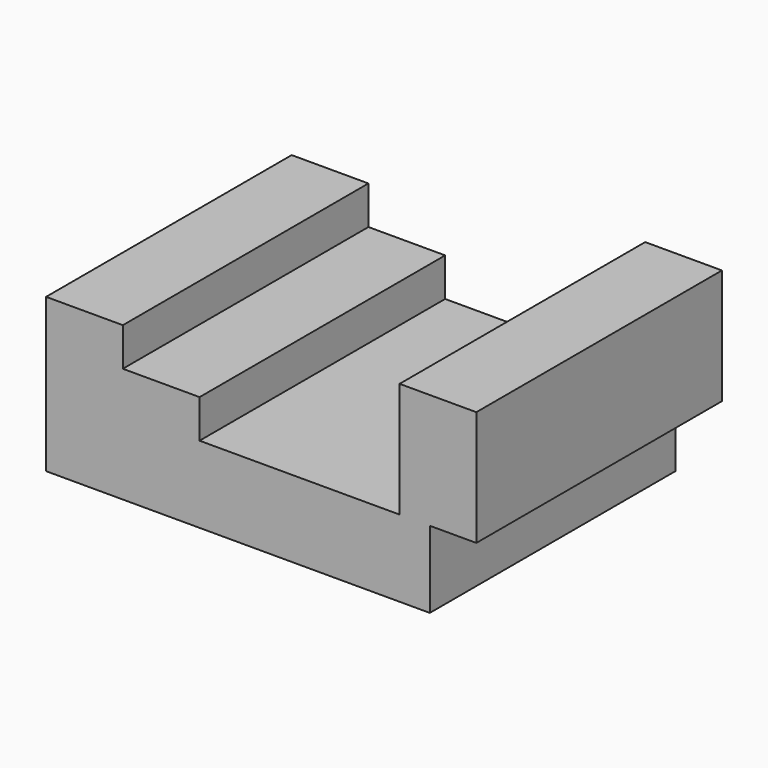
from build123d import *

# Parameters (mm, degrees)
F0_W     = 25.4
F0_H     = 12.7
F1_DEPTH = 101.6
F2_DEPTH = 25.4


with BuildPart() as f1:
    # F0 (on Front) → F1 (new body)
    with BuildSketch(Plane.XZ):
        Polygon((121.018117, 50.8), (121.018117, 0), (248.018117, 0), (248.018117, 25.4), (263.420549, 25.4), (263.420549, 63.5), (238.020549, 63.5), (238.020549, 25.4), (216.686985, 25.4), (181.552551, 25.4), (171.818117, 25.4), (146.418117, 25.4), (146.418117, 38.1), (146.418117, 50.8), align=None)
        with Locations((159.118117, 31.75)):
            Rectangle(F0_W, F0_H)
    extrude(amount=F1_DEPTH)

    # F0 (on Front) → F2 (join)
    with BuildSketch(Plane.XZ):
        Polygon((121.018117, 50.8), (121.018117, 0), (248.018117, 0), (248.018117, 25.4), (263.420549, 25.4), (263.420549, 63.5), (238.020549, 63.5), (238.020549, 25.4), (216.686985, 25.4), (181.552551, 25.4), (171.818117, 25.4), (146.418117, 25.4), (146.418117, 38.1), (146.418117, 50.8), align=None)
        with Locations((159.118117, 31.75)):
            Rectangle(F0_W, F0_H)
    extrude(amount=F2_DEPTH)


solid = f1.part
